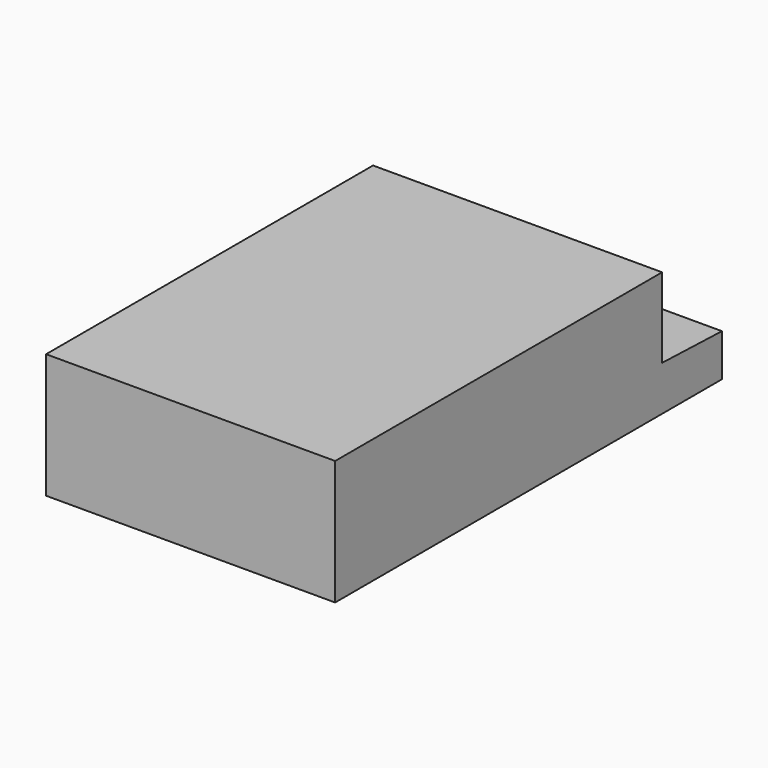
from build123d import *

# Parameters (mm, degrees)
F1_DEPTH = 29
F3_D     = 3
F3_DEPTH = 5
F3_TIP   = 0.9012909285


with BuildPart() as f1:
    # F0 (on Right) → F1 (new body, symmetric)
    with BuildSketch(Plane.YZ):
        Polygon((0, 25), (0, 0), (97, 0), (97, 8.5), (82, 9), (82, 25), align=None)
    extrude(amount=F1_DEPTH, both=True)

    # F3
    with Locations(Plane(origin=(0, 0, 0), x_dir=(1, 0, 0), z_dir=(0, 0, -1))):
        with Locations((0, -14), (0, -72)):
            Hole(F3_D / 2, depth=F3_DEPTH)
            with Locations((0, 0, -(F3_DEPTH + F3_TIP / 2))):  # 118° drill point
                Cone(0, F3_D / 2, F3_TIP, mode=Mode.SUBTRACT)


solid = f1.part
